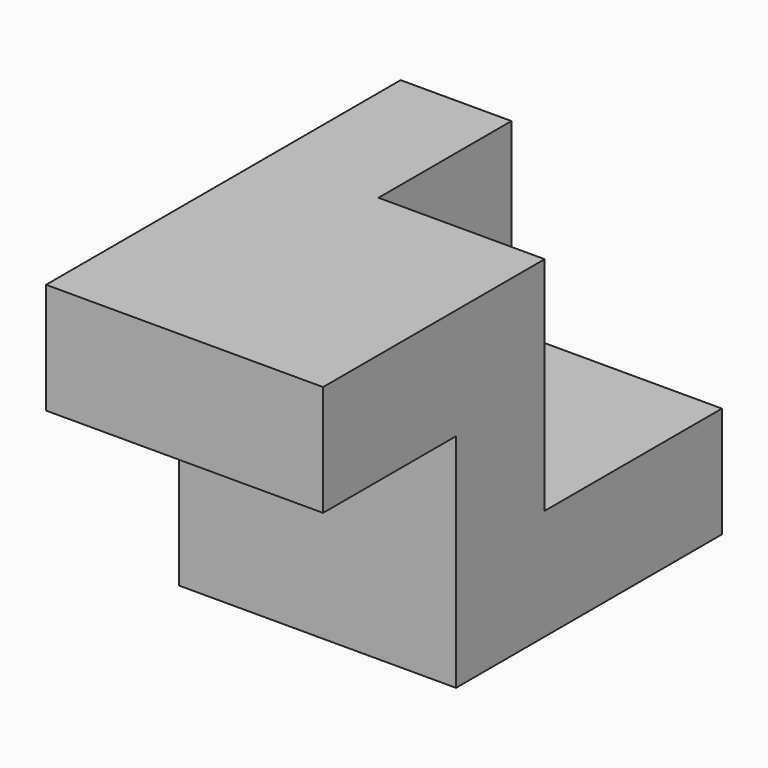
from build123d import *

# Parameters (mm, degrees)
F1_DEPTH = 63.5
F2_W     = 25.4
F2_H     = 50.8
F3_DEPTH = 38.1


with BuildPart() as f1:
    # F0 (on Right) → F1 (new body)
    with BuildSketch(Plane.YZ):
        Polygon((7.561973, 31.32121), (-55.938027, 31.32121), (-55.938027, 5.92121), (-17.838027, 5.92121), (-17.838027, -44.87879), (58.361973, -44.87879), (58.361973, -19.47879), (7.561973, -19.47879), align=None)
    extrude(amount=F1_DEPTH)

    # F2 (on face) → F3 (join)
    with BuildSketch(Plane(origin=(0, 7.561973, 0), x_dir=(-1, 0, 0), z_dir=(0, 1, 0))):
        with Locations((-12.7, 5.92121)):
            Rectangle(F2_W, F2_H)
    extrude(amount=F3_DEPTH)


solid = f1.part
